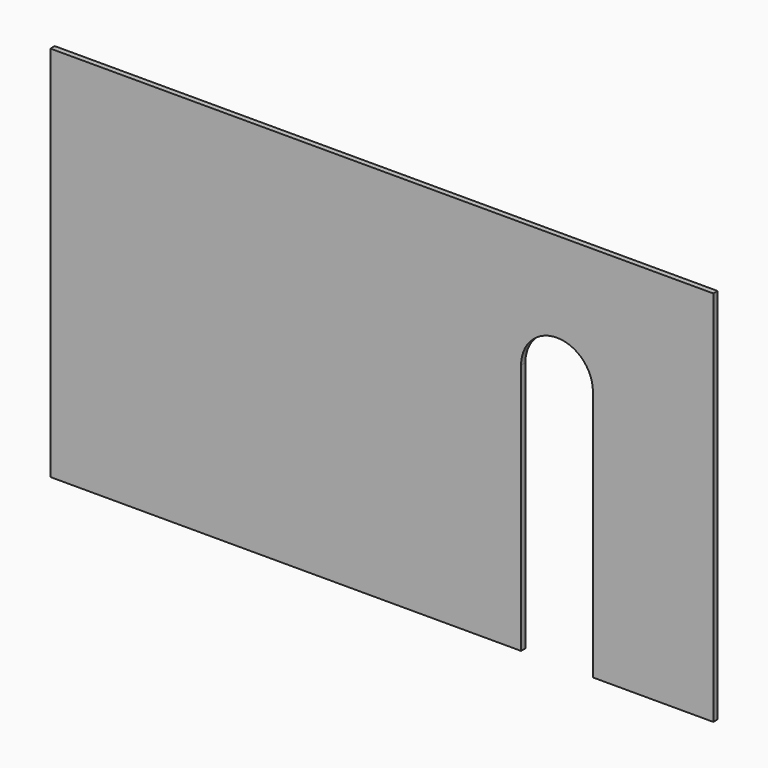
from build123d import *

# Parameters (mm, degrees)
F1_DEPTH = 6


with BuildPart() as f1:
    # F0 (on Front) → F1 (new body)
    with BuildSketch(Plane.XZ):
        with BuildLine():
            Line((0, 420), (0, 0))
            Line((0, 0), (524, 0))
            Line((524, 0), (524, 280))
            ThreePointArc((524, 280), (564, 320), (604, 280))
            Line((604, 280), (604, 0))
            Line((604, 0), (738, 0))
            Line((738, 0), (738, 420))
            Line((738, 420), (0, 420))
        make_face()
    extrude(amount=F1_DEPTH)


solid = f1.part
